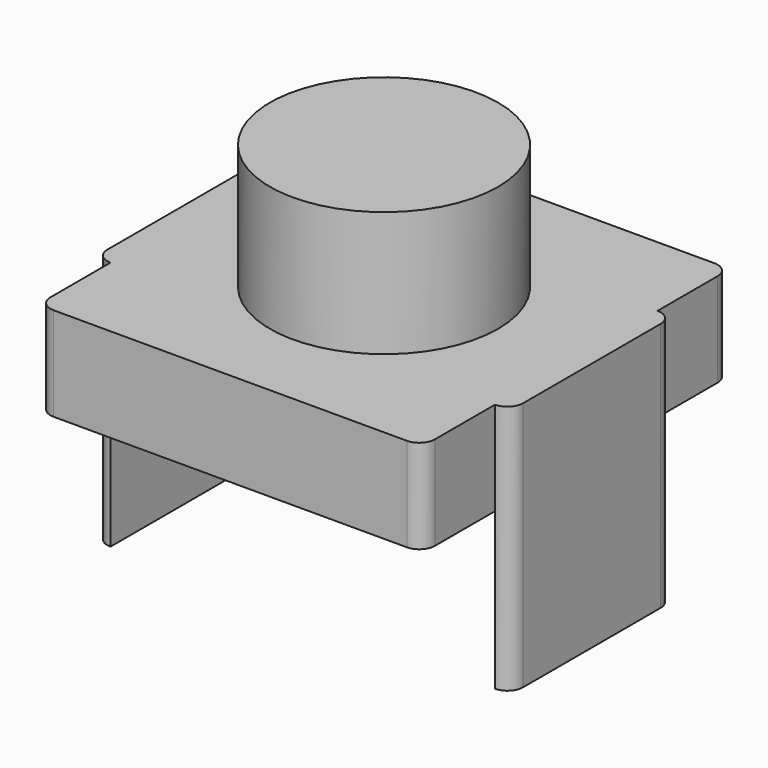
from build123d import *

# Parameters (mm, degrees)
F0_R     = 3.65
F1_DEPTH = 7
F2_START = -4
F2_DEPTH = 3
F3_START = -4
F3_DEPTH = 8


with BuildPart() as f1:
    # F0 (on Top) → F1 (new body)
    with BuildSketch(Plane.XY):
        Circle(F0_R)
    extrude(amount=-F1_DEPTH)

    # F0 (on Top) → F2 (join)
    with BuildSketch(Plane.XY.offset(F2_START)):
        with BuildLine():
            ThreePointArc((-6.15, -5.65), (-6.0035533906, -6.0035533906), (-5.65, -6.15))
            Line((-5.65, -6.15), (5.65, -6.15))
            ThreePointArc((5.65, -6.15), (6.0035533906, -6.0035533906), (6.15, -5.65))
            Line((6.15, -5.65), (6.15, -3.25))
            Line((6.15, -3.25), (6.15, 3.25))
            Line((6.15, 3.25), (6.15, 5.65))
            ThreePointArc((6.15, 5.65), (6.0035533906, 6.0035533906), (5.65, 6.15))
            Line((5.65, 6.15), (-5.65, 6.15))
            ThreePointArc((-5.65, 6.15), (-6.0035533906, 6.0035533906), (-6.15, 5.65))
            Line((-6.15, 5.65), (-6.15, 3.25))
            Line((-6.15, 3.25), (-6.15, -3.25))
            Line((-6.15, -3.25), (-6.15, -5.65))
        make_face()
        Circle(F0_R, mode=Mode.SUBTRACT)
    extrude(amount=-F2_DEPTH)

    # F0 (on Top) → F3 (join)
    with BuildSketch(Plane.XY.offset(F3_START)):
        with BuildLine():
            ThreePointArc((-6.65, -2.75), (-6.5035533906, -3.1035533906), (-6.15, -3.25))
            Line((-6.15, -3.25), (-6.15, 3.25))
            ThreePointArc((-6.15, 3.25), (-6.5035533906, 3.1035533906), (-6.65, 2.75))
            Line((-6.65, 2.75), (-6.65, 0))
            Line((-6.65, 0), (-6.65, -2.75))
        make_face()
        with BuildLine():
            Line((6.15, 3.25), (6.15, -3.25))
            ThreePointArc((6.15, -3.25), (6.5035533906, -3.1035533906), (6.65, -2.75))
            Line((6.65, -2.75), (6.65, 0))
            Line((6.65, 0), (6.65, 2.75))
            ThreePointArc((6.65, 2.75), (6.5035533906, 3.1035533906), (6.15, 3.25))
        make_face()
    extrude(amount=-F3_DEPTH)


solid = f1.part
